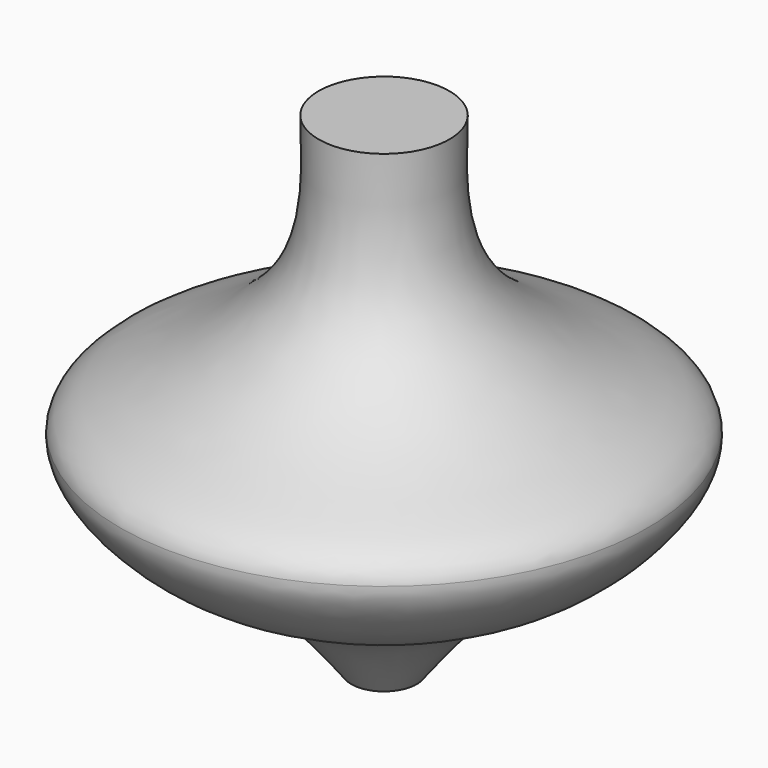
from build123d import *


with BuildPart() as f1:
    # F0 (on Front) → F1 (revolve)
    with BuildSketch(Plane.XZ):
        with BuildLine():
            Line((-31.5868146718, 0), (0, 0))
            Line((0, 0), (0, 33.2257561386))
            Line((0, 33.2257561386), (-7.8328493983, 33.2257561386))
            add(Edge.make_bspline(
                [(-7.8328493983, 33.2257561386), (-7.65481087, 27.4291572939), (-7.2934627774, 15.6643446072), (-22.4617432273, 5.6899415356), (-31.2705570128, 2.5738956582), (-31.5868146718, 0)],
                knots=[0, 0, 0, 0, 0.1833944981, 0.3722186019, 0.5152583655, 0.5152583655, 0.5152583655, 0.5152583655], degree=3))
        make_face()
        with BuildLine():
            Line((0, -25.4780445248), (0, 0))
            Line((0, 0), (-31.5868146718, 0))
            add(Edge.make_bspline(
                [(-31.5868146718, 0), (-31.9406858426, -2.8800171131), (-23.9371365462, -11.7176462371), (-12.2726829397, -14.4475224475), (-6.7297541004, -21.7643609607), (-3.9164237678, -25.4780445248)],
                knots=[0.5152583655, 0.5152583655, 0.5152583655, 0.5152583655, 0.6753102953, 0.8352027563, 1, 1, 1, 1], degree=3))
            Line((-3.9164237678, -25.4780445248), (0, -25.4780445248))
        make_face()
    revolve(axis=Axis((0, 0, 16.6128780693), (0, 0, 1)))


solid = f1.part
